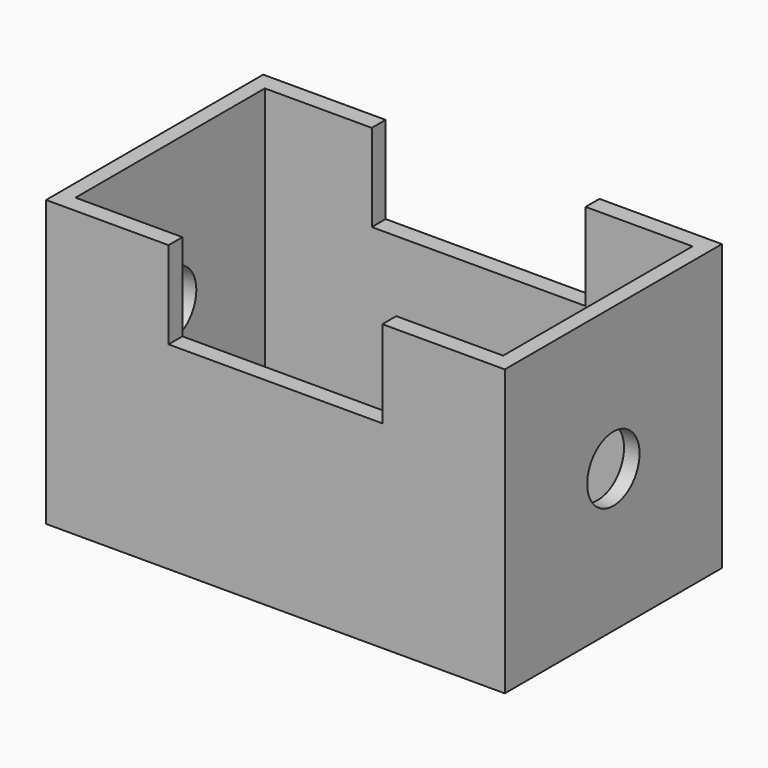
from build123d import *

# Parameters (mm, degrees)
F0_W     = 139.704422
F0_H     = 82.653814
F0_W_2   = 130.242362
F0_H_2   = 72.07857
F1_DEPTH = 43.434
F2_R     = 9.957557
F3_DEPTH = 170.434
F4_W     = 65.121188
F4_H     = 53.194226
F5_DEPTH = 111.252


with BuildPart() as f1:
    # F0 (on Top) → F1 (new body, symmetric)
    with BuildSketch(Plane.XY):
        Rectangle(F0_W, F0_H)
        Rectangle(F0_W_2, F0_H_2, mode=Mode.SUBTRACT)
    extrude(amount=F1_DEPTH, both=True)

    # F2 (on face) → F3 (cut)
    with BuildSketch(Plane.YZ.offset(69.852211)):
        Circle(F2_R)
    extrude(amount=-F3_DEPTH, mode=Mode.SUBTRACT)

    # F4 (on face) → F5 (cut)
    with BuildSketch(Plane.XZ.offset(41.326907)):
        with Locations((0, 43.434)):
            Rectangle(F4_W, F4_H)
    extrude(amount=-F5_DEPTH, mode=Mode.SUBTRACT)


solid = f1.part
